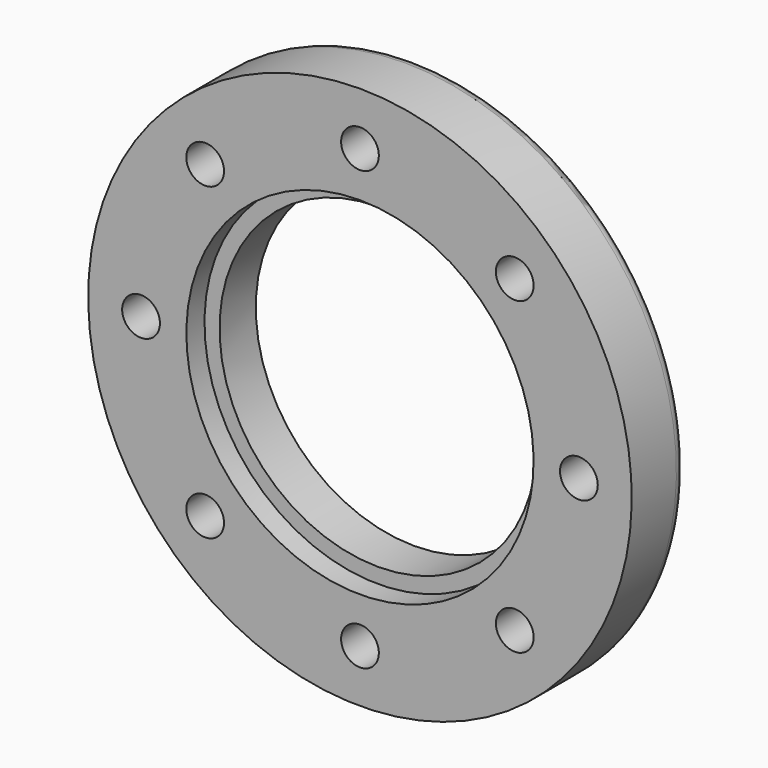
from build123d import *

# Parameters (mm, degrees)
F2_R     = 7.9375
F3_DEPTH = 28.576
F4_R     = 5.08


with BuildPart() as f1:
    # F0 (on Right) → F1 (revolve)
    with BuildSketch(Plane.YZ):
        Polygon((28.575, 114.3), (0, 114.3), (0, 73.025), (9.525, 73.025), (9.525, 66.675), (28.575, 66.675), align=None)
    revolve(axis=Axis((0, 0.501314, 0), (0, -1, 0)))

    # F2 (on face) → F3 (cut, through all)
    with BuildSketch(Plane.XZ):
        with Locations((0, 92.075)):
            Circle(F2_R)
        with Locations((-65.106857, 65.106857)):
            Circle(F2_R)
        with Locations((-92.075, 0)):
            Circle(F2_R)
        with Locations((-65.106857, -65.106857)):
            Circle(F2_R)
        with Locations((0, -92.075)):
            Circle(F2_R)
        with Locations((65.106857, -65.106857)):
            Circle(F2_R)
        with Locations((92.075, 0)):
            Circle(F2_R)
        with Locations((65.106857, 65.106857)):
            Circle(F2_R)
    extrude(amount=-F3_DEPTH, mode=Mode.SUBTRACT)

    # F4
    f4_edges = [f1.edges().sort_by_distance(p)[0] for p in [
        (0, 28.575, -114.3),
    ]]
    fillet(f4_edges, radius=F4_R)


solid = f1.part
